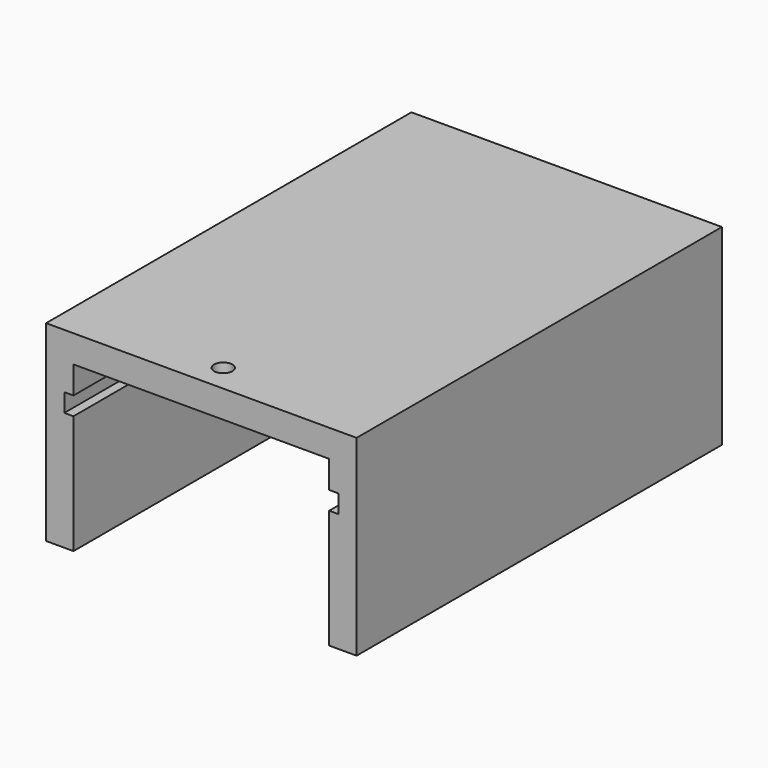
from build123d import *

# Parameters (mm, degrees)
F0_W           = 28
F0_H           = 3
F1_DEPTH       = 50
F2_W           = 1
F2_H           = 2
F3_DEPTH       = 50
F5_D           = 2
F5_CSINK_D     = 3
F5_CSINK_ANGLE = 90


with BuildPart() as f1:
    # F0 (on Front) → F1 (new body)
    with BuildSketch(Plane.XZ):
        Polygon((0, -3), (0, 0), (-3, 0), (-3, -21), (0, -21), align=None)
        with Locations((14, -1.5)):
            Rectangle(F0_W, F0_H)
        Polygon((31, 0), (28, 0), (28, -3), (28, -21), (31, -21), align=None)
    extrude(amount=F1_DEPTH)

    # F2 (on face) → F3 (cut)
    with BuildSketch(Plane.XZ.offset(50)):
        with Locations((-0.5, -7)):
            Rectangle(F2_W, F2_H)
        with Locations((28.5, -7)):
            Rectangle(F2_W, F2_H)
    extrude(amount=-F3_DEPTH, mode=Mode.SUBTRACT)

    # F5 (through all)
    with Locations(Plane(origin=(0, 0, -3), x_dir=(1, 0, 0), z_dir=(0, 0, -1))):
        with Locations((14, 47)):
            CounterSinkHole(F5_D / 2, F5_CSINK_D / 2, counter_sink_angle=F5_CSINK_ANGLE)


solid = f1.part
